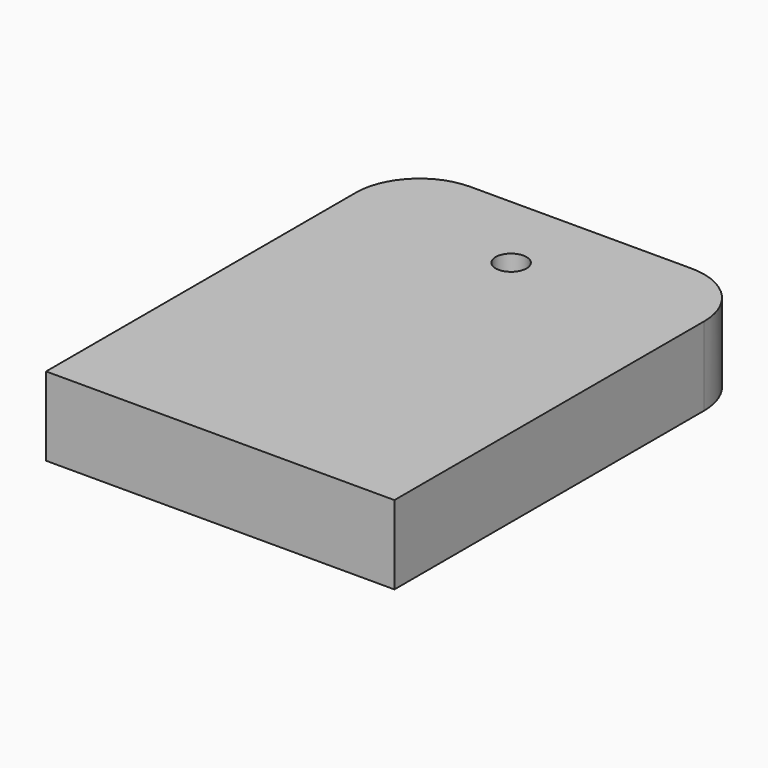
from build123d import *

# Parameters (mm, degrees)
F0_W     = 27.3773
F0_H     = 35.429452
F1_DEPTH = 6.18124
F2_R     = 5
F3_R     = 1.216032
F4_DEPTH = 25


with BuildPart() as f1:
    # F0 (on Top) → F1 (new body)
    with BuildSketch(Plane.XY):
        with Locations((-34.624234, 32.047549)):
            Rectangle(F0_W, F0_H)
    extrude(amount=F1_DEPTH)

    # F2
    f2_edges = [f1.edges().sort_by_distance(p)[0] for p in [
        (-20.935584, 49.762275, 3.09062),
        (-48.312884, 49.762275, 3.09062),
    ]]
    fillet(f2_edges, radius=F2_R)

    # F3 (on Top) → F4 (cut)
    with BuildSketch(Plane.XY):
        with Locations((-35.054151, 43.442421)):
            Circle(F3_R)
    extrude(amount=F4_DEPTH, mode=Mode.SUBTRACT)


solid = f1.part
